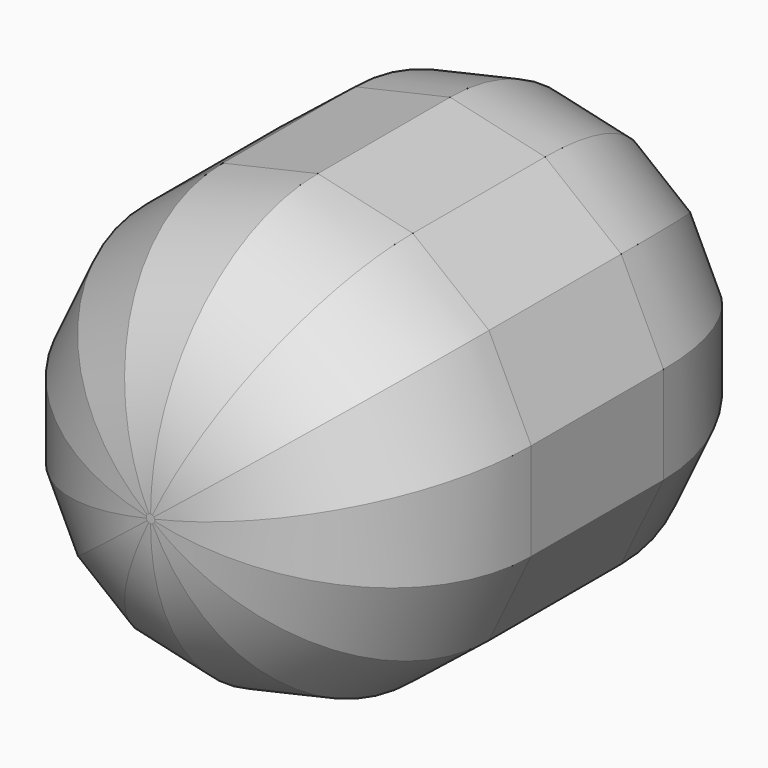
from build123d import *

# Parameters (mm, degrees)
F1_DEPTH      = 15
F1_DEPTH_BACK = 15
F2_R          = 10.75


with BuildPart() as f1:
    # F0 (on Front) → F1 (new body, two sides)
    with BuildSketch(Plane.XZ) as f1_sk:
        Polygon((10.967939, -2.503361), (10.967939, 2.503361), (8.795604, 7.01426), (4.881192, 10.1359), (0, 11.25), (-4.881192, 10.1359), (-8.795604, 7.01426), (-10.967939, 2.503361), (-10.967939, -2.503361), (-8.795604, -7.01426), (-4.881192, -10.1359), (0, -11.25), (4.881192, -10.1359), (8.795604, -7.01426), align=None)
    extrude(amount=F1_DEPTH)
    extrude(f1_sk.sketch, amount=-F1_DEPTH_BACK)

    # F2
    f2_edges = [f1.edges().sort_by_distance(p)[0] for p in [
        (9.881772, -15, -4.75881),
        (10.967939, -15, 0),
        (9.881772, -15, 4.75881),
        (6.838398, -15, 8.57508),
        (2.440596, -15, 10.69295),
        (-2.440596, -15, 10.69295),
        (-6.838398, -15, 8.57508),
        (-9.881772, -15, 4.75881),
        (-10.967939, -15, 0),
        (-9.881772, -15, -4.75881),
        (-6.838398, -15, -8.57508),
        (-2.440596, -15, -10.69295),
        (2.440596, -15, -10.69295),
        (6.838398, -15, -8.57508),
        (9.881772, 15, -4.75881),
        (10.967939, 15, 0),
        (9.881772, 15, 4.75881),
        (6.838398, 15, 8.57508),
        (2.440596, 15, 10.69295),
        (-2.440596, 15, 10.69295),
        (-6.838398, 15, 8.57508),
        (-9.881772, 15, 4.75881),
        (-10.967939, 15, 0),
        (-9.881772, 15, -4.75881),
        (-6.838398, 15, -8.57508),
        (-2.440596, 15, -10.69295),
        (2.440596, 15, -10.69295),
        (6.838398, 15, -8.57508),
    ]]
    fillet(f2_edges, radius=F2_R)


solid = f1.part
